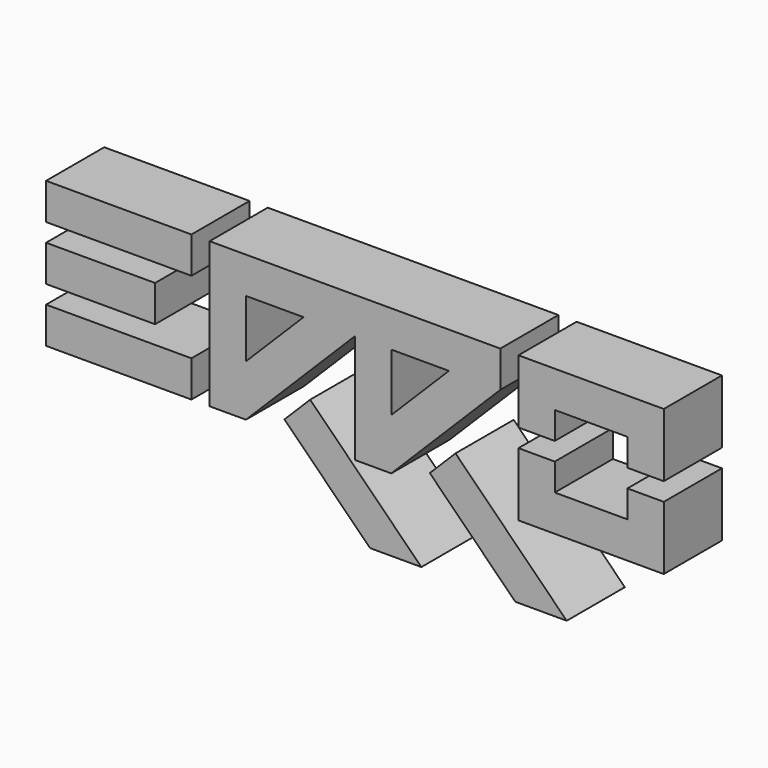
from build123d import *

# Parameters (mm, degrees)
F0_W     = 30
F0_H     = 10
F0_W_2   = 40
F1_DEPTH = 20


with BuildPart() as f1:
    # F0 (on Front) → F1 (new body)
    with BuildSketch(Plane.XZ):
        with Locations((-25, 20)):
            Rectangle(F0_W, F0_H)
        with Locations((-20, 35)):
            Rectangle(F0_W_2, F0_H)
        with Locations((-20, 5)):
            Rectangle(F0_W_2, F0_H)
        Polygon((5, 40), (5, 0), (15, 0), (22.071068, 7.071068), (29.142136, 14.142136), (45, 30), (45, 40), align=None)
        Polygon((15, 14.142136), (15, 30), (30.857864, 30), align=None, mode=Mode.SUBTRACT)
        Polygon((32.67767, 10.606602), (25.606602, 3.535534), (49.142136, -20), (63.284271, -20), align=None)
        Polygon((72.67767, 10.606602), (65.606602, 3.535534), (89.142136, -20), (103.284271, -20), align=None)
        Polygon((85, 40), (45, 40), (45, 30), (45, 0), (55, 0), (62.071068, 7.071068), (69.142136, 14.142136), (85, 30), align=None)
        Polygon((55, 14.142136), (55, 30), (70.857864, 30), align=None, mode=Mode.SUBTRACT)
        Polygon((130, 40), (90, 40), (90, 22.5), (100, 22.5), (100, 30), (120, 30), (120, 22.5), (130, 22.5), align=None)
        Polygon((90, 17.5), (90, 0), (130, 0), (130, 17.5), (120, 17.5), (120, 10), (100, 10), (100, 17.5), align=None)
    extrude(amount=F1_DEPTH)


solid = f1.part
